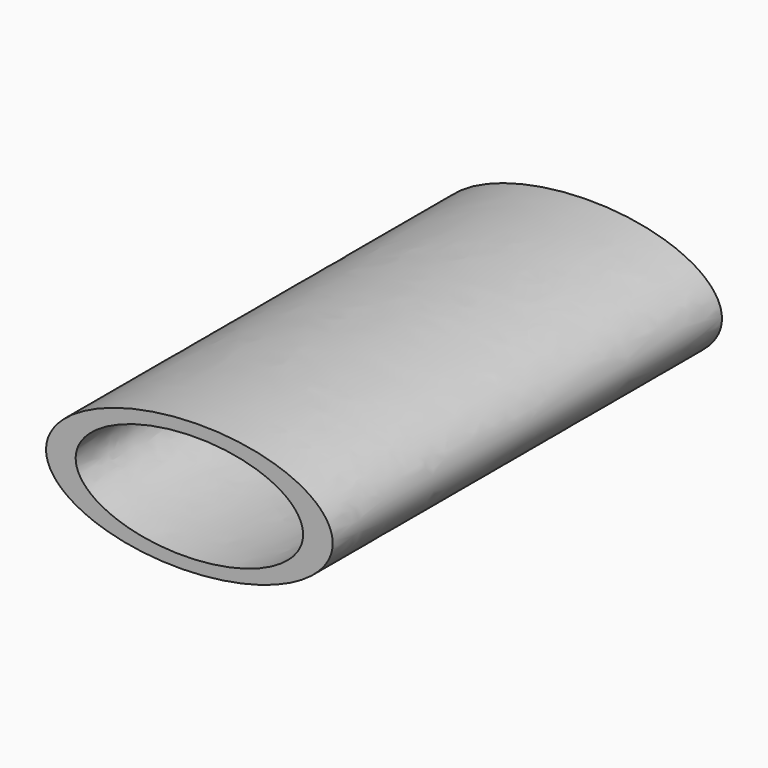
from build123d import *

# Parameters (mm, degrees)
F1_DEPTH = 236.982
F3_DEPTH = 238.76


with BuildPart() as f1:
    # F0 (on Front) → F1 (new body)
    with BuildSketch(Plane.XZ):
        with BuildLine():
            add(Edge.make_bspline(
                [(59.658621, 7.791672), (57.058434, 63.509956), (-46.305719, 30.766482), (-149.669873, -1.976992), (-43.705533, -24.951802), (62.258807, -47.926613), (59.658621, 7.791672)],
                knots=[0, 0, 0, 2.094395, 2.094395, 4.18879, 4.18879, 6.283185, 6.283185, 6.283185], degree=2, weights=[1, 0.5, 1, 0.5, 1, 0.5, 1]))
        make_face()
    extrude(amount=F1_DEPTH)

    # F2 (on face) → F3 (cut)
    with BuildSketch(Plane.XZ.offset(236.982)):
        with BuildLine():
            add(Edge.make_bspline(
                [(45.247912, 6.628736), (43.524953, 52.199413), (-38.661752, 26.274147), (-120.848456, 0.34888), (-36.938792, -19.296531), (46.970872, -38.941941), (45.247912, 6.628736)],
                knots=[0, 0, 0, 2.094395, 2.094395, 4.18879, 4.18879, 6.283185, 6.283185, 6.283185], degree=2, weights=[1, 0.5, 1, 0.5, 1, 0.5, 1]))
        make_face()
    extrude(amount=-F3_DEPTH, mode=Mode.SUBTRACT)


solid = f1.part
